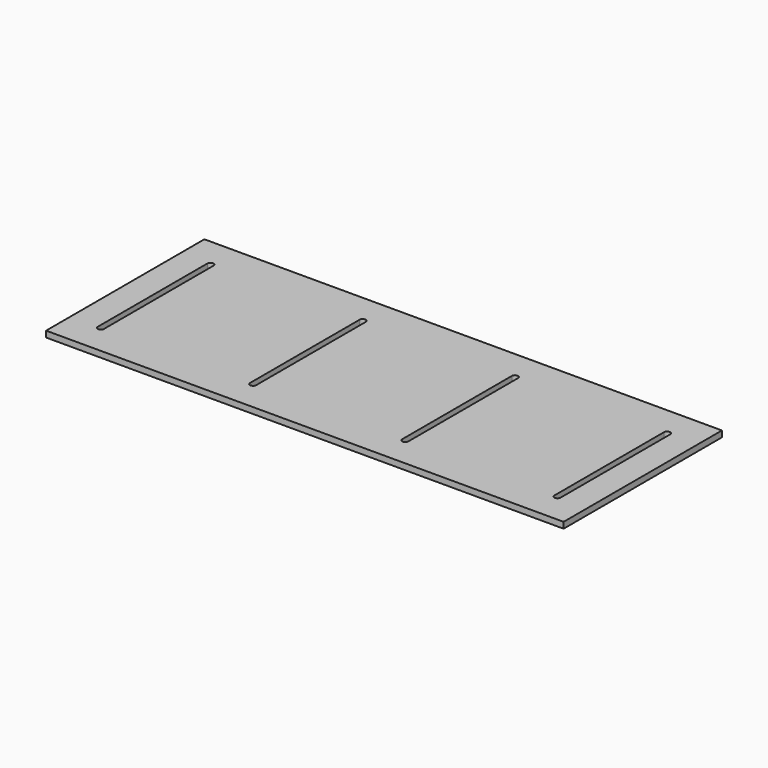
from build123d import *

# Parameters (mm, degrees)
F0_W     = 431.8
F0_H     = 165.1
F1_DEPTH = 5.08


with BuildPart() as f1:
    # F0 (on Top) → F1 (new body)
    with BuildSketch(Plane.XY):
        with Locations((215.9, 82.55)):
            Rectangle(F0_W, F0_H)
        with BuildLine():
            Line((22.86, 25.4), (22.86, 139.7))
            ThreePointArc((22.86, 139.7), (25.4, 142.24), (27.94, 139.7))
            Line((27.94, 139.7), (27.94, 25.4))
            ThreePointArc((27.94, 25.4), (25.4, 22.86), (22.86, 25.4))
        make_face(mode=Mode.SUBTRACT)
        with BuildLine():
            ThreePointArc((149.86, 139.7), (152.4, 142.24), (154.94, 139.7))
            Line((154.94, 139.7), (154.94, 25.4))
            ThreePointArc((154.94, 25.4), (152.4, 22.86), (149.86, 25.4))
            Line((149.86, 25.4), (149.86, 139.7))
        make_face(mode=Mode.SUBTRACT)
        with BuildLine():
            ThreePointArc((276.86, 139.7), (279.4, 142.24), (281.94, 139.7))
            Line((281.94, 139.7), (281.94, 25.4))
            ThreePointArc((281.94, 25.4), (279.4, 22.86), (276.86, 25.4))
            Line((276.86, 25.4), (276.86, 139.7))
        make_face(mode=Mode.SUBTRACT)
        with BuildLine():
            ThreePointArc((403.86, 139.7), (406.4, 142.24), (408.94, 139.7))
            Line((408.94, 139.7), (408.94, 25.4))
            ThreePointArc((408.94, 25.4), (406.4, 22.86), (403.86, 25.4))
            Line((403.86, 25.4), (403.86, 139.7))
        make_face(mode=Mode.SUBTRACT)
    extrude(amount=F1_DEPTH)


solid = f1.part
